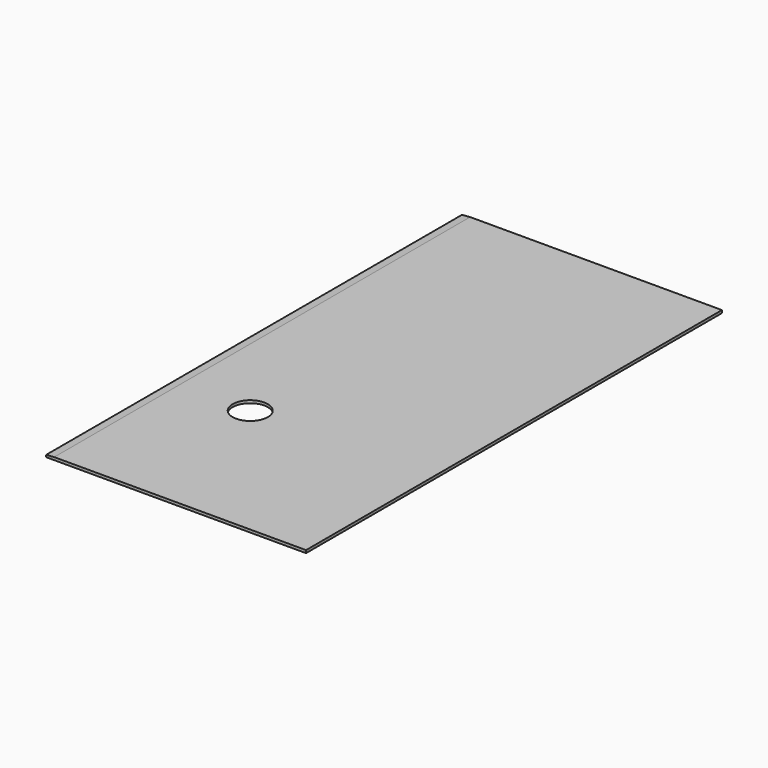
from build123d import *

# Parameters (mm, degrees)
F1_DEPTH = 2438.4
F2_R     = 82.55
F3_DEPTH = 25.4


with BuildPart() as f1:
    # F0 (on Front) → F1 (new body)
    with BuildSketch(Plane.XZ):
        Polygon((609.6, 6.35), (-571.5, 6.35), (-609.6, 3.175), (-609.6, -6.35), (609.6, -6.35), align=None)
    extrude(amount=F1_DEPTH)

    # F2 (on face) → F3 (cut)
    with BuildSketch(Plane(origin=(0, 0, -6.35), x_dir=(1, 0, 0), z_dir=(0, 0, -1))):
        with Locations((-241.3, 1701.8)):
            Circle(F2_R)
    extrude(amount=-F3_DEPTH, mode=Mode.SUBTRACT)


solid = f1.part
